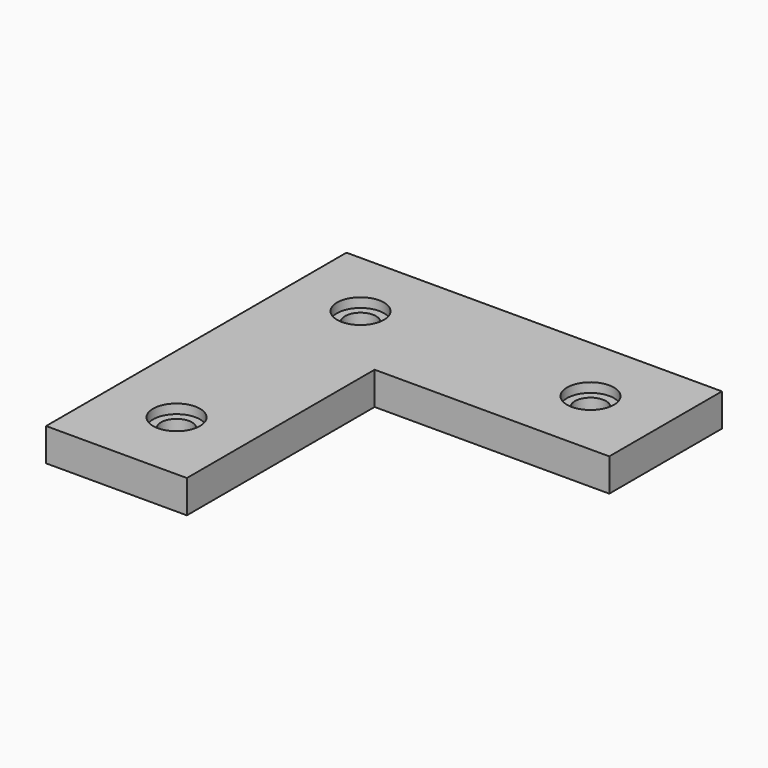
from build123d import *

# Parameters (mm, degrees)
F0_W     = 25
F0_H     = 15
F1_DEPTH = 3.5
F2_R     = 1.65
F3_DEPTH = 3.5
F2_R_2   = 2.5
F4_DEPTH = 1


with BuildPart() as f1:
    # F0 (on Top) → F1 (new body)
    with BuildSketch(Plane.XY):
        Polygon((7.5, 20), (-7.5, 20), (-7.5, -20), (7.5, -20), (7.5, 5), align=None)
        with Locations((20, 12.5)):
            Rectangle(F0_W, F0_H)
    extrude(amount=F1_DEPTH)

    # F2 (on face) → F3 (cut, through all)
    with BuildSketch(Plane.XY.offset(3.5)):
        with Locations((0, 12.5)):
            Circle(F2_R)
        with Locations((0, -12)):
            Circle(F2_R)
        with Locations((24.5, 12.5)):
            Circle(F2_R)
    extrude(amount=-F3_DEPTH, mode=Mode.SUBTRACT)

    # F2 (on face) → F4 (cut)
    with BuildSketch(Plane.XY.offset(3.5)):
        with Locations((0, -12)):
            Circle(F2_R_2)
        with Locations((0, -12)):
            Circle(F2_R, mode=Mode.SUBTRACT)
        with Locations((0, 12.5)):
            Circle(F2_R_2)
        with Locations((0, 12.5)):
            Circle(F2_R, mode=Mode.SUBTRACT)
        with Locations((24.5, 12.5)):
            Circle(F2_R_2)
        with Locations((24.5, 12.5)):
            Circle(F2_R, mode=Mode.SUBTRACT)
    extrude(amount=-F4_DEPTH, mode=Mode.SUBTRACT)


solid = f1.part
